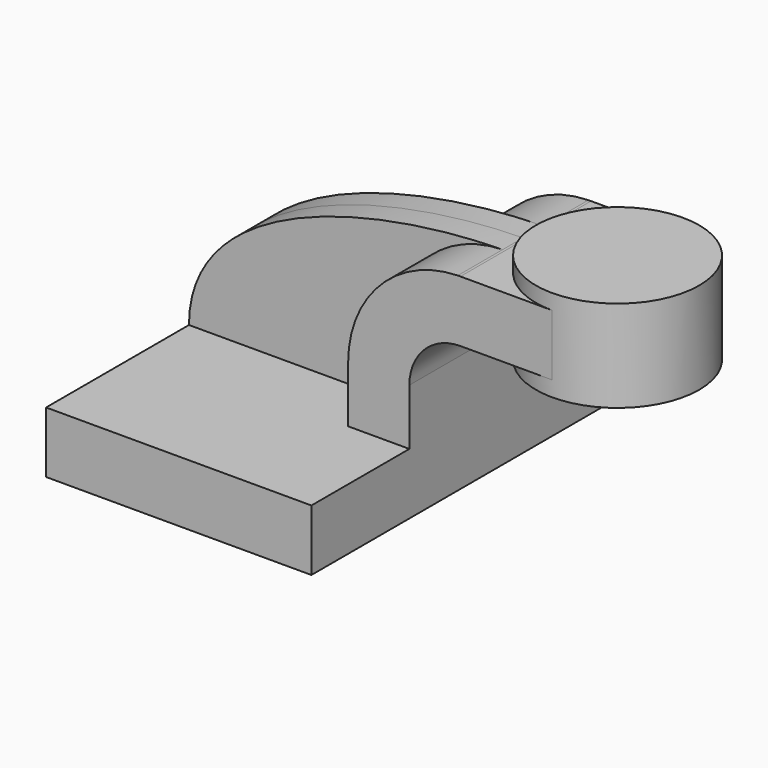
from build123d import *

# Parameters (mm, degrees)
F1_DEPTH = 63.5
F2_DEPTH = 25.4
F3_DEPTH = 7.9375


with BuildPart() as f1:
    # F0 (on Front) → F1 (new body, symmetric)
    with BuildSketch(Plane.XZ):
        Polygon((-41.275, 9.525), (-41.275, -9.525), (41.275, -9.525), (41.275, 9.525), (22.225, 9.525), align=None)
    extrude(amount=F1_DEPTH, both=True)

    # F0 (on Front) → F2 (join, symmetric)
    with BuildSketch(Plane.XZ):
        with BuildLine():
            Line((22.225, 9.525), (41.275, 9.525))
            Line((41.275, 9.525), (41.275, 27.0002))
            ThreePointArc((41.275, 27.0002), (45.92468, 38.22552), (57.15, 42.8752))
            Line((57.15, 42.8752), (60.325, 42.8752))
            Line((60.325, 42.8752), (60.325, 61.9252))
            Line((60.325, 61.9252), (57.15, 61.9252))
            add(Edge.make_bspline(
                [(56.334677, 61.915682), (56.607115, 61.919454), (56.878897, 61.922626), (57.15, 61.9252)],
                knots=[110.772816, 110.772816, 110.772816, 110.772816, 111.504536, 111.504536, 111.504536, 111.504536], degree=3))
            ThreePointArc((56.334677, 61.915682), (32.167698, 51.405942), (22.225, 27.0002))
            Line((22.225, 27.0002), (22.225, 9.525))
        make_face()
        Polygon((85.725, 61.9252), (60.325, 61.9252), (60.325, 42.8752), (85.725, 42.8752), (85.725, 52.3875), align=None)
    extrude(amount=F2_DEPTH, both=True)

    # F0 (on Front) → F3 (join, symmetric)
    with BuildSketch(Plane.XZ):
        with BuildLine():
            add(Edge.make_bspline(
                [(-41.275, 9.525), (-41.221754, 47.019336), (15.091041, 61.344656), (56.334677, 61.915682)],
                knots=[0, 0, 0, 0, 110.772816, 110.772816, 110.772816, 110.772816], degree=3))
            Line((-41.275, 9.525), (22.225, 9.525))
            Line((22.225, 9.525), (22.225, 27.0002))
            ThreePointArc((22.225, 27.0002), (32.167698, 51.405942), (56.334677, 61.915682))
        make_face()
    extrude(amount=F3_DEPTH, both=True)

    # F0 (on Front) → F4 (revolve)
    with BuildSketch(Plane.XZ):
        Polygon((85.725, 66.675), (85.725, 61.9252), (85.725, 52.3875), (85.725, 42.8752), (85.725, 38.1), (111.125, 38.1), (111.125, 66.675), align=None)
    revolve(axis=Axis((85.725, 0, 45.24375), (0, 0, -1)))


solid = f1.part
